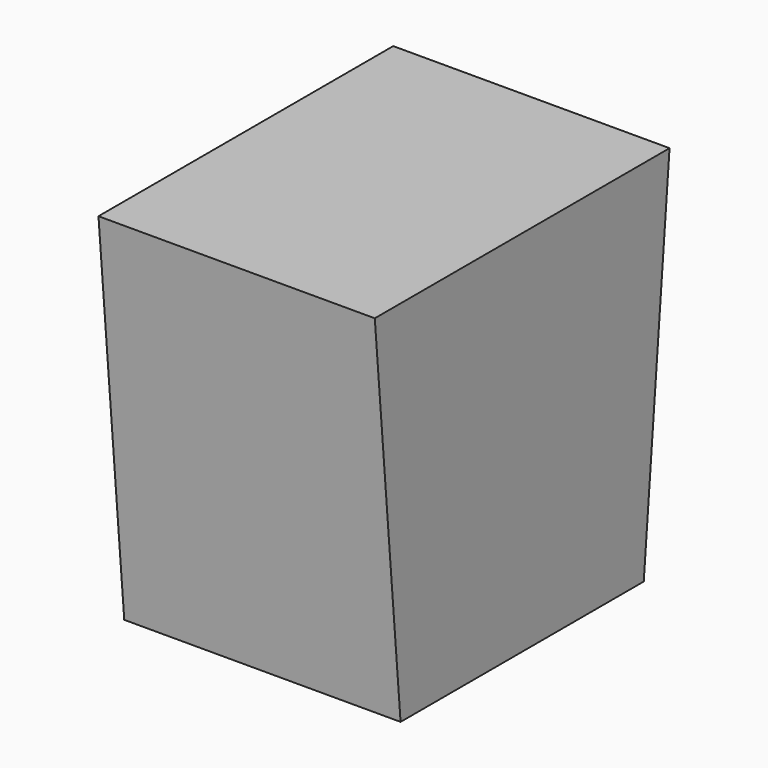
from build123d import *

# Parameters (mm, degrees)
F0_W     = 304.8
F0_H     = 406.4
F1_DEPTH = 406.4
F3_DEPTH = 609.6
F4_DEPTH = 609.6


with BuildPart() as f1:
    # F0 (on Top) → F1 (new body)
    with BuildSketch(Plane.XY):
        Rectangle(F0_W, F0_H)
    extrude(amount=F1_DEPTH)

    # F2 (on face) → F3 (cut)
    with BuildSketch(Plane(origin=(-152.4, 0, 0), x_dir=(0, -1, 0), z_dir=(-1, 0, 0))):
        Polygon((-167.644607, 0), (-203.2, 406.4), (-203.2, 0), align=None)
    extrude(amount=-F3_DEPTH, mode=Mode.SUBTRACT)

    # F2 (on face) → F4 (cut)
    with BuildSketch(Plane(origin=(-152.4, 0, 0), x_dir=(0, -1, 0), z_dir=(-1, 0, 0))):
        Polygon((203.2, 0), (203.2, 406.4), (167.644607, 0), align=None)
    extrude(amount=-F4_DEPTH, mode=Mode.SUBTRACT)


solid = f1.part
